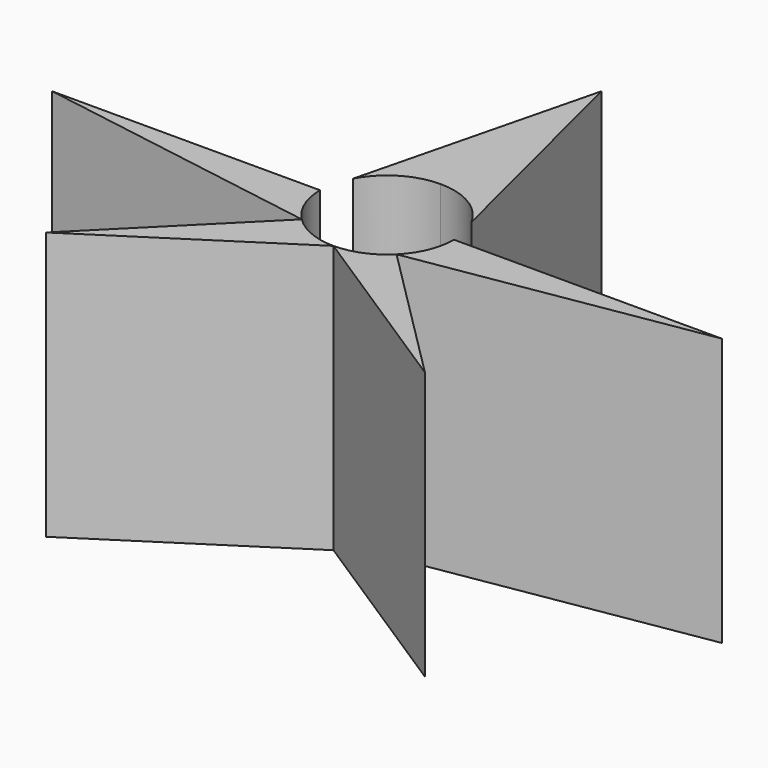
from build123d import *

# Parameters (mm, degrees)
F1_DEPTH = 25.4
F2_R     = 6.35
F3_DEPTH = 25.4


with BuildPart() as f1:
    # F0 (on Top) → F1 (new body)
    with BuildSketch(Plane.XY):
        with BuildLine():
            ThreePointArc((-4.490128, -4.490128), (-5.866635, -2.43004), (-6.35, 0))
            Line((-6.35, 0), (-31.75, 0))
            Line((-31.75, 0), (-4.490128, -4.490128))
        make_face()
        with BuildLine():
            ThreePointArc((-5.602941, 2.988235), (-6.160405, 1.540101), (-6.35, 0))
            Line((-6.35, 0), (-5.602941, 2.988235))
        make_face()
        with BuildLine():
            ThreePointArc((0, -6.35), (-2.43004, -5.866635), (-4.490128, -4.490128))
            Line((-4.490128, -4.490128), (-17.960512, -17.960512))
            Line((-17.960512, -17.960512), (0, -6.35))
        make_face()
        with BuildLine():
            Line((0, 25.4), (-5.602941, 2.988235))
            ThreePointArc((-5.602941, 2.988235), (-3.267048, 5.44508), (0, 6.35))
            Line((0, 6.35), (0, 25.4))
        make_face()
        with BuildLine():
            ThreePointArc((4.490128, -4.490128), (2.43004, -5.866635), (0, -6.35))
            Line((0, -6.35), (17.960512, -17.960512))
            Line((17.960512, -17.960512), (4.490128, -4.490128))
        make_face()
        with BuildLine():
            Line((0, 25.4), (0, 6.35))
            ThreePointArc((0, 6.35), (3.267048, 5.44508), (5.602941, 2.988235))
            Line((5.602941, 2.988235), (0, 25.4))
        make_face()
        with BuildLine():
            ThreePointArc((6.35, 0), (5.866635, -2.43004), (4.490128, -4.490128))
            Line((4.490128, -4.490128), (31.75, 0))
            Line((31.75, 0), (6.35, 0))
        make_face()
        with BuildLine():
            ThreePointArc((6.35, 0), (6.160405, 1.540101), (5.602941, 2.988235))
            Line((5.602941, 2.988235), (6.35, 0))
        make_face()
    extrude(amount=F1_DEPTH)

    # F2 (on face) → F3 (cut)
    with BuildSketch(Plane.XY.offset(25.4)):
        Circle(F2_R)
    extrude(amount=-F3_DEPTH, mode=Mode.SUBTRACT)


solid = f1.part
